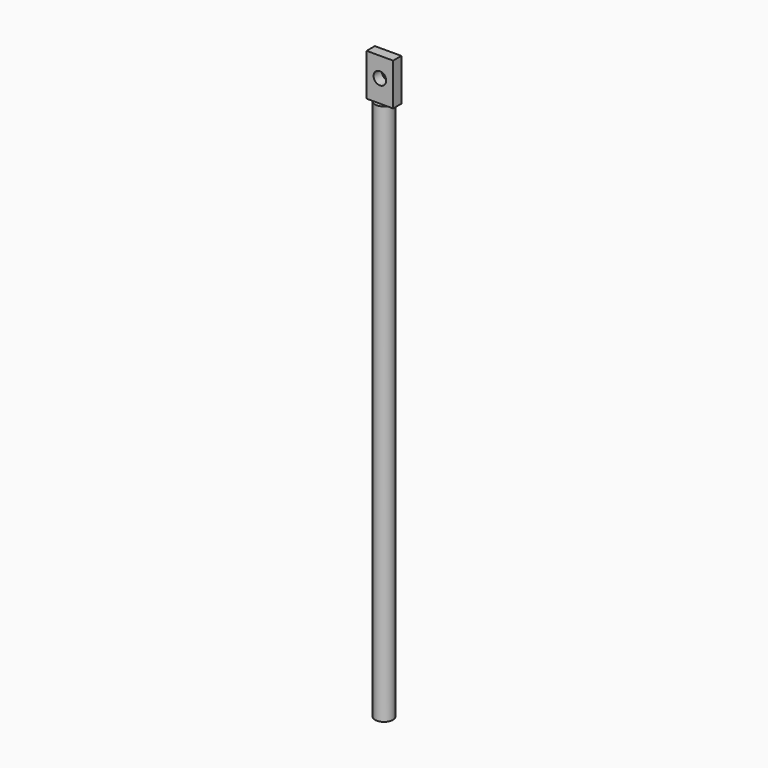
from build123d import *

# Parameters (mm, degrees)
F0_R     = 3.7719
F1_DEPTH = 228.6
F2_W     = 11.176
F2_H     = 4.3434
F3_DEPTH = 17.78
F5_D     = 5.334


with BuildPart() as f1:
    # F0 (on Top) → F1 (new body)
    with BuildSketch(Plane.XY):
        Circle(F0_R)
    extrude(amount=F1_DEPTH)

    # F2 (on face) → F3 (join)
    with BuildSketch(Plane.XY.offset(228.6)):
        Rectangle(F2_W, F2_H)
    extrude(amount=F3_DEPTH)

    # F5 (through all)
    with Locations(Plane(origin=(0, 2.1717, 0), x_dir=(-1, 0, 0), z_dir=(0, 1, 0))):
        with Locations((0, 237.998)):
            Hole(F5_D / 2)


solid = f1.part
